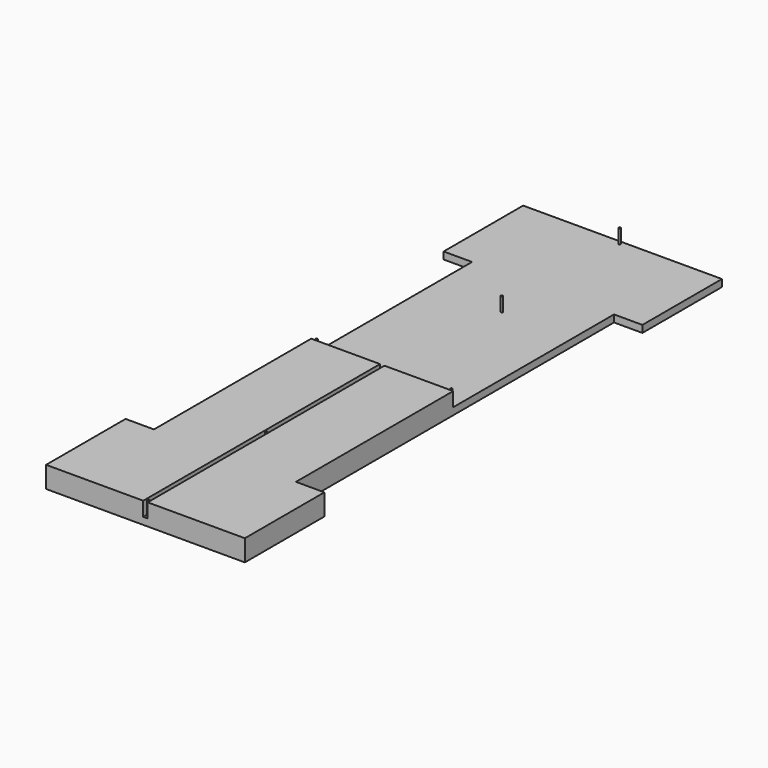
from build123d import *

# Parameters (mm, degrees)
F1_DEPTH = 12.7
F2_R     = 1.7272
F3_DEPTH = 25.4


with BuildPart() as f1:
    # F0 (on Top) → F1 (new body)
    with BuildSketch(Plane.XY):
        Polygon((-127, 355.6), (-127, -355.6), (-177.8, -355.6), (-177.8, -533.4), (177.8, -533.4), (177.8, -355.6), (127, -355.6), (127, 355.6), (177.8, 355.6), (177.8, 533.4), (-177.8, 533.4), (-177.8, 355.6), align=None)
    extrude(amount=F1_DEPTH)

    # F2 (on face) → F3 (join)
    with BuildSketch(Plane.XY.offset(12.7)):
        with Locations((0, 263.525)):
            Circle(F2_R)
        with Locations((-120.65, 0)):
            Circle(F2_R)
        with Locations((120.65, 0)):
            Circle(F2_R)
        with Locations((0, 527.05)):
            Circle(F2_R)
        with Locations((0, -263.525)):
            Circle(F2_R)
        with Locations((0, -527.05)):
            Circle(F2_R)
        Polygon((3.96875, -3.96875), (3.96875, -533.4), (177.8, -533.4), (177.8, -355.6), (127, -355.6), (127, -3.96875), align=None)
        Polygon((-3.96875, -533.4), (-3.96875, -3.96875), (-127, -3.96875), (-127, -355.6), (-177.8, -355.6), (-177.8, -533.4), align=None)
    extrude(amount=F3_DEPTH)


solid = f1.part
